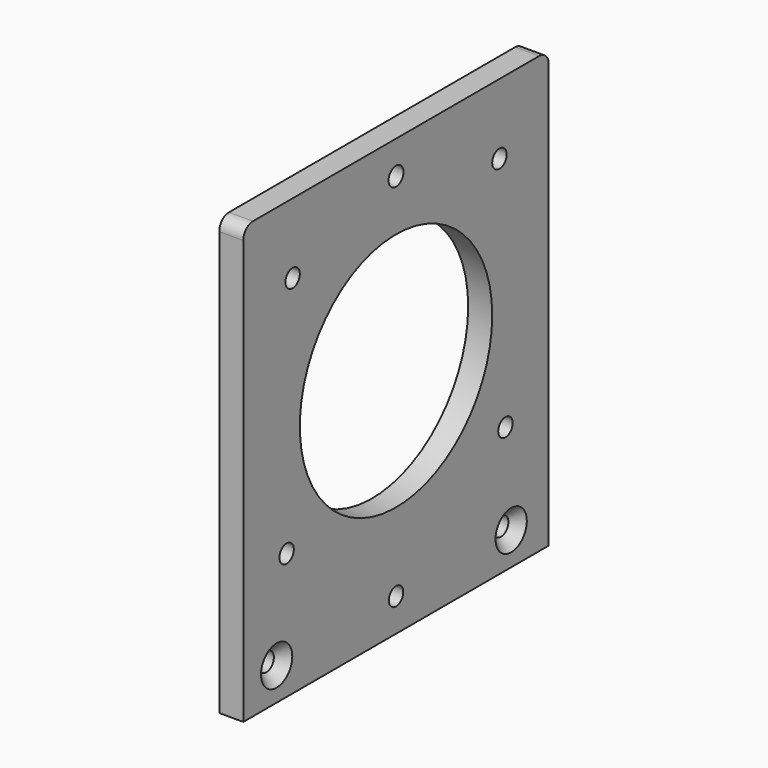
from build123d import *

# Parameters (mm, degrees)
F0_R     = 1.55
F0_R_2   = 1.5
F0_R_3   = 20
F1_DEPTH = 4
F2_SIZE  = 1.7


with BuildPart() as f1:
    # F0 (on Right) → F1 (new body)
    with BuildSketch(Plane.YZ):
        with BuildLine():
            ThreePointArc((31.75, 34.25), (31.164214, 35.664214), (29.75, 36.25))
            Line((29.75, 36.25), (-29.75, 36.25))
            ThreePointArc((-29.75, 36.25), (-31.164214, 35.664214), (-31.75, 34.25))
            Line((-31.75, 34.25), (-31.75, -36.25))
            Line((-31.75, -36.25), (31.75, -36.25))
            Line((31.75, -36.25), (31.75, 34.25))
        make_face()
        with Locations((-24.821896, -30.8)):
            Circle(F0_R, mode=Mode.SUBTRACT)
        with Locations((-22.75, -15.25)):
            Circle(F0_R_2, mode=Mode.SUBTRACT)
        with Locations((0, -30.75)):
            Circle(F0_R_2, mode=Mode.SUBTRACT)
        with Locations((23.940323, -30.8)):
            Circle(F0_R, mode=Mode.SUBTRACT)
        with Locations((22.75, -15.25)):
            Circle(F0_R_2, mode=Mode.SUBTRACT)
        with Locations((-21.5, 24.58)):
            Circle(F0_R_2, mode=Mode.SUBTRACT)
        with Locations((0, 2.25)):
            Circle(F0_R_3, mode=Mode.SUBTRACT)
        with Locations((0, 30.75)):
            Circle(F0_R, mode=Mode.SUBTRACT)
        with Locations((21.5, 24.58)):
            Circle(F0_R_2, mode=Mode.SUBTRACT)
    extrude(amount=F1_DEPTH)

    # F2
    f2_edges = [f1.edges().sort_by_distance(p)[0] for p in [
        (4, -26.371896, -30.8),
        (4, 22.390323, -30.8),
    ]]
    chamfer(f2_edges, length=F2_SIZE)


solid = f1.part
